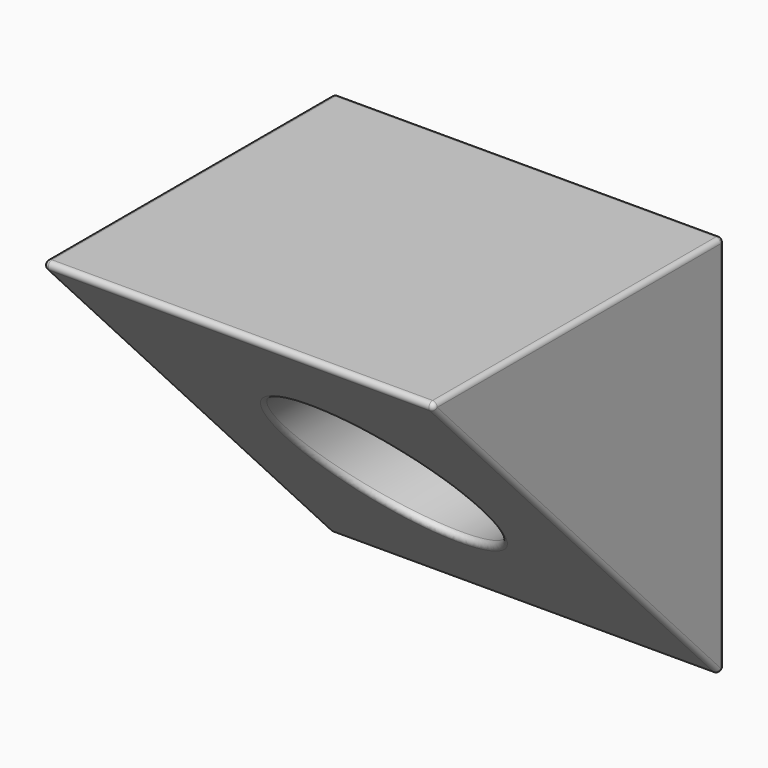
from build123d import *

# Parameters (mm, degrees)
F0_W     = 42.8625
F0_H     = 42.8625
F0_R     = 10.31875
F1_DEPTH = 40.64
F3_DEPTH = 42.8635
F4_R     = 0.508


with BuildPart() as f1:
    # F0 (on Front) → F1 (new body)
    with BuildSketch(Plane.XZ):
        with Locations((21.43125, -21.43125)):
            Rectangle(F0_W, F0_H)
        with Locations((21.43125, -21.43125)):
            Circle(F0_R, mode=Mode.SUBTRACT)
    extrude(amount=F1_DEPTH)

    # F2 (on face) → F3 (cut, through all)
    with BuildSketch(Plane.YZ.offset(42.8625)):
        Polygon((0, -42.8625), (-40.64, 0), (-40.64, -42.8625), align=None)
    extrude(amount=-F3_DEPTH, mode=Mode.SUBTRACT)

    # F4
    f4_edges = [f1.edges().sort_by_distance(p)[0] for p in [
        (42.8625, 0, -21.43125),
        (42.8625, -20.32, 0),
        (42.8625, -20.32, -21.43125),
        (21.43125, 0, -42.8625),
        (21.43125, -40.64, 0),
        (0, -20.32, -21.43125),
        (11.1125, -20.317825, -21.433544),
        (0, 0, -21.43125),
        (0, -20.32, 0),
        (21.43125, 0, 0),
    ]]
    fillet(f4_edges, radius=F4_R)


solid = f1.part
